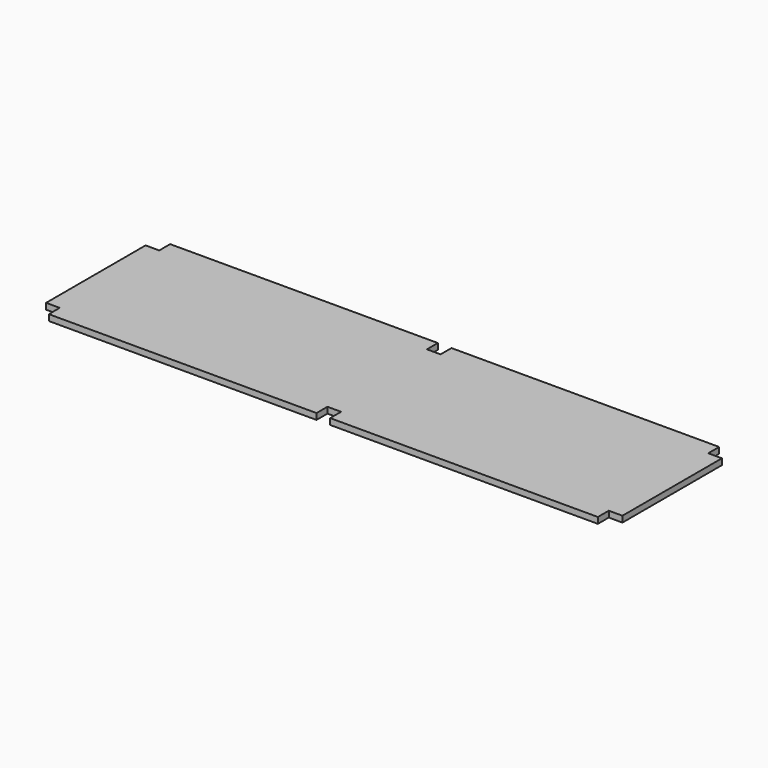
from build123d import *

# Parameters (mm, degrees)
F0_W     = 1900
F0_H     = 500
F1_DEPTH = 20
F2_W     = 45
F2_H     = 45
F3_DEPTH = 20.001


with BuildPart() as f1:
    # F0 (on Top) → F1 (new body)
    with BuildSketch(Plane.XY):
        Rectangle(F0_W, F0_H)
    extrude(amount=F1_DEPTH)

    # F2 (on face) → F3 (cut, through all)
    with BuildSketch(Plane.XY.offset(20)):
        with Locations((-927.5, 227.5)):
            Rectangle(F2_W, F2_H)
        with Locations((-927.5, -227.5)):
            Rectangle(F2_W, F2_H)
        with Locations((927.5, 227.5)):
            Rectangle(F2_W, F2_H)
        with Locations((927.5, -227.5)):
            Rectangle(F2_W, F2_H)
        with Locations((0, 227.5)):
            Rectangle(F2_W, F2_H)
        with Locations((0, -227.5)):
            Rectangle(F2_W, F2_H)
    extrude(amount=-F3_DEPTH, mode=Mode.SUBTRACT)


solid = f1.part
